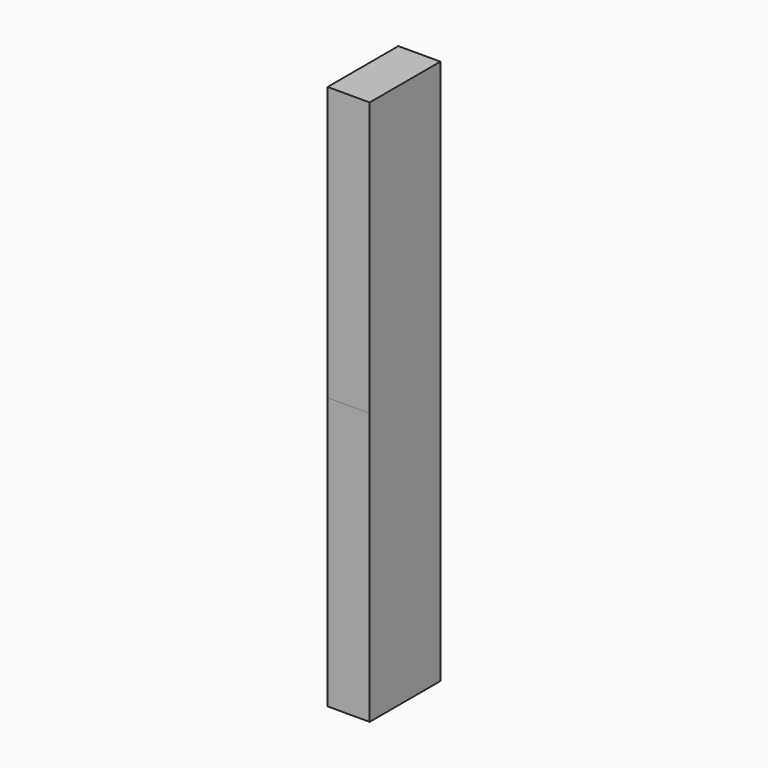
from build123d import *

# Parameters (mm, degrees)
F0_W      = 17.018
F0_H      = 35.794821
F0_R      = 8.1788
F1_DEPTH  = 109.982
F1_FACE_W = 17.018
F1_FACE_H = 35.79482
F2_DEPTH  = 110.744


with BuildPart() as f1:
    # F0 (on Top) → F1 (new body)
    with BuildSketch(Plane.XY):
        with Locations((-0.122874, -17.89741)):
            Rectangle(F0_W, F0_H)
        with Locations((0, -18.823625)):
            Circle(F0_R, mode=Mode.SUBTRACT)
        with Locations((0, -18.823625)):
            Circle(F0_R)
    extrude(amount=-F1_DEPTH)

    # F1_face (on face) → F2 (join)
    with BuildSketch(Plane(origin=(-0.122874, -17.89741, 0), x_dir=(1, 0, 0), z_dir=(0, 0, 1))):
        Rectangle(F1_FACE_W, F1_FACE_H)
    extrude(amount=F2_DEPTH)


solid = f1.part
